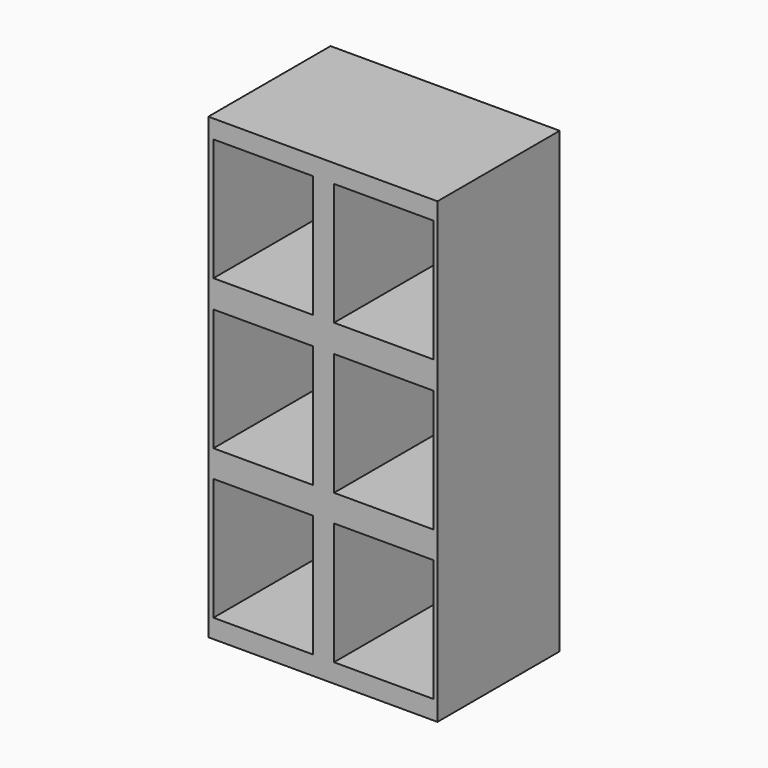
from build123d import *

# Parameters (mm, degrees)
F0_W     = 76.2
F0_H     = 152.4
F1_DEPTH = 50.8
F2_W     = 33.02
F2_H     = 40.64
F3_DEPTH = 48.26


with BuildPart() as f1:
    # F0 (on Front) → F1 (new body)
    with BuildSketch(Plane.XZ):
        Rectangle(F0_W, F0_H)
    extrude(amount=F1_DEPTH)

    # F2 (on face) → F3 (cut)
    with BuildSketch(Plane.XZ.offset(50.8)):
        with Locations((-19.880973, 49.785413)):
            Rectangle(F2_W, F2_H)
        with Locations((20.210451, 49.785413)):
            Rectangle(F2_W, F2_H)
        with Locations((-19.880973, 0)):
            Rectangle(F2_W, F2_H)
        with Locations((20.210451, 0)):
            Rectangle(F2_W, F2_H)
        with Locations((-19.880973, -49.599994)):
            Rectangle(F2_W, F2_H)
        with Locations((20.210451, -49.599994)):
            Rectangle(F2_W, F2_H)
    extrude(amount=-F3_DEPTH, mode=Mode.SUBTRACT)


solid = f1.part
